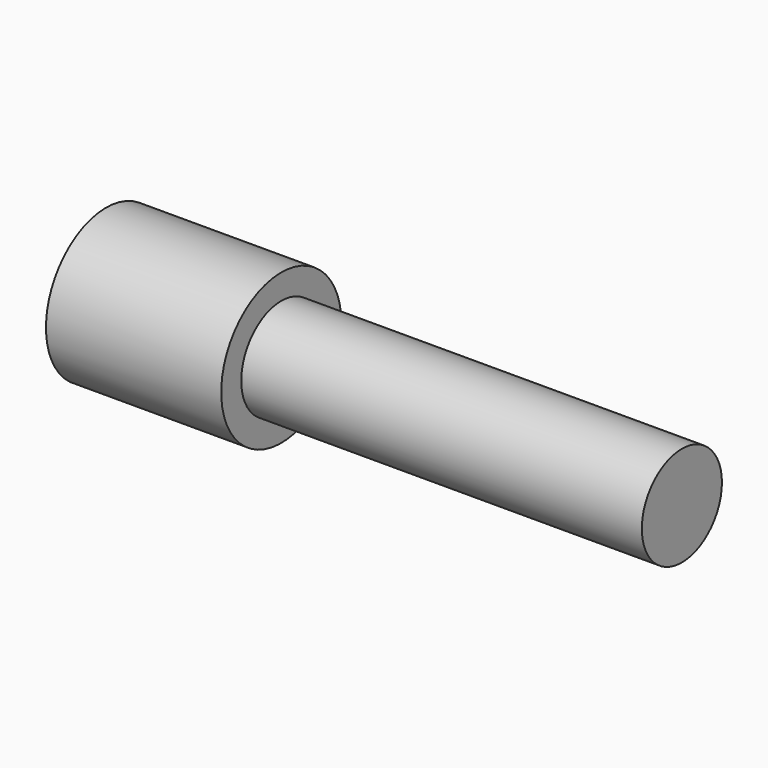
from build123d import *

# Parameters (mm, degrees)
F0_R     = 12.7
F1_DEPTH = 101.6
F2_R     = 19.05
F3_DEPTH = 44.45


with BuildPart() as f1:
    # F0 (on Right) → F1 (new body)
    with BuildSketch(Plane.YZ):
        Circle(F0_R)
    extrude(amount=F1_DEPTH)


with BuildPart() as f3:
    # F2 (on Right) → F3 (new body)
    with BuildSketch(Plane.YZ):
        Circle(F2_R)
    extrude(amount=-F3_DEPTH)


solid = Compound([f1.part, f3.part])
